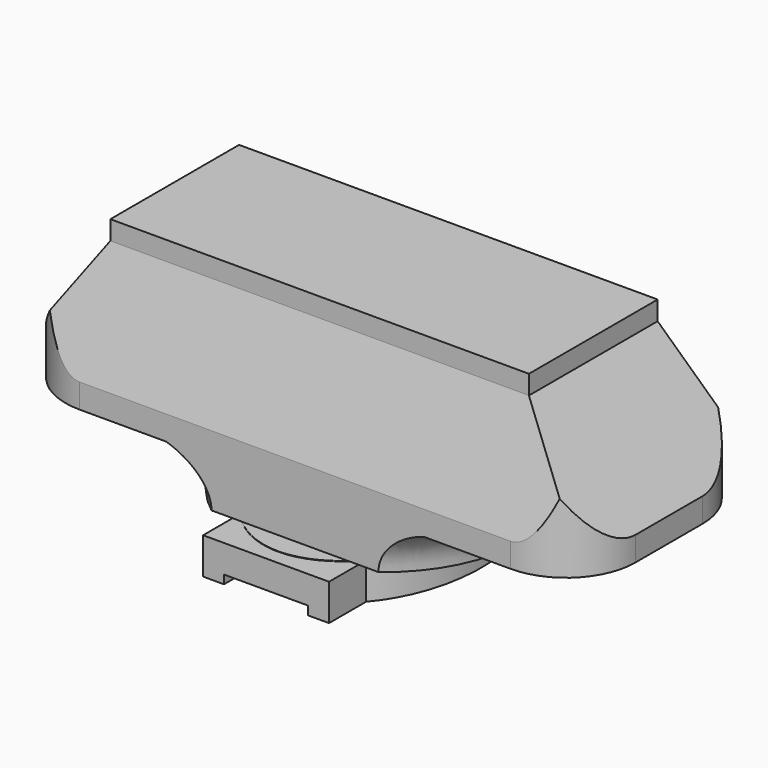
from build123d import *

# Parameters (mm, degrees)
SKETCH_W        = 82
SKETCH_H        = 32
PAD_DEPTH       = 19.85
SKETCH001_W     = 60.2
SKETCH001_H     = 23.14
PAD001_DEPTH    = 2.75
POCKET_DEPTH    = 82.001
POCKET001_DEPTH = 32.001
FILLET_R        = 10
SKETCH006_W     = 1.503506
SKETCH006_H     = 1.507809
PAD002_DEPTH    = 1
SKETCH007_W     = 9.4
SKETCH007_H     = 8
POCKET002_DEPTH = 82.001
SKETCH009_R     = 19.9
SKETCH009_R_2   = 17.7
POCKET003_DEPTH = 0.01
SKETCH010_R     = 9.5
POCKET004_DEPTH = 1
PAD003_DEPTH    = 5.3
SKETCH012_R     = 9.55
PAD004_DEPTH    = 4.06
CHAMFER_SIZE    = 1.2
SKETCH013_W     = 18.11
SKETCH013_H     = 7.2
PAD005_DEPTH    = 1.24
PAD006_DEPTH    = 4
SKETCH014_W     = 12.1
SKETCH014_H     = 45
POCKET005_DEPTH = 5
SKETCH015_W     = 20
SKETCH015_H     = 8
POCKET006_DEPTH = 50.051
SKETCH018_W     = 19.342346
SKETCH018_H     = 7.312466
POCKET007_DEPTH = 5.301


with BuildPart() as part:
    # Sketch → Pad (new body)
    with BuildSketch(Plane.XY):
        with Locations((41, 16)):
            Rectangle(SKETCH_W, SKETCH_H)
    extrude(amount=PAD_DEPTH)

    # Sketch001 (on Face6 of Pad) → Pad001 (join)
    with BuildSketch(Plane.XY.offset(19.85)):
        with Locations((41.004494, 16)):
            Rectangle(SKETCH001_W, SKETCH001_H)
    extrude(amount=PAD001_DEPTH)

    # Sketch002 (on Face3 of Pad001) → Pocket (cut, through all)
    with BuildSketch(Plane.YZ.offset(82)):
        Polygon((0, 3.5), (0, 19.85), (4.43, 19.85), align=None)
        Polygon((32, 3.5), (32, 19.85), (27.57, 19.85), align=None)
    extrude(amount=-POCKET_DEPTH, mode=Mode.SUBTRACT)

    # Sketch003 → Pocket001 (cut, through all)
    with BuildSketch(Plane.XZ):
        Polygon((0, 3.5), (0, 19.85), (10.9, 19.85), align=None)
        Polygon((82, 3.5), (82, 19.85), (71.1, 19.85), align=None)
    extrude(amount=-POCKET001_DEPTH, mode=Mode.SUBTRACT)

    # Fillet
    fillet_edges = [part.edges().sort_by_distance(p)[0] for p in [
        (82, 32, 1.75),
        (82, 0, 1.75),
        (0, 0, 1.75),
        (0, 32, 1.75),
    ]]
    fillet(fillet_edges, radius=FILLET_R)

    # Sketch006 (on Face2 of Fillet) → Pad002 (join)
    with BuildSketch(Plane(origin=(0, 0, 0), x_dir=(1, 0, 0), z_dir=(0, 0, -1))):
        with Locations((40.248247, -15.246095)):
            Rectangle(SKETCH006_W, SKETCH006_H)
    extrude(amount=PAD002_DEPTH)

    # Sketch008 → Revolution (revolve)
    with BuildSketch(Plane.YZ.offset(41)):
        with BuildLine():
            Line((16, 0), (16, -6.6))
            Line((16, -6.6), (-4, -6.6))
            ThreePointArc((-4, -6.6), (-5.232048, -2.605942), (-8.5, 0))
            Line((-8.5, 0), (16, 0))
        make_face()
    revolve(axis=Axis((41, 16, -0.5), (0, 0, -1)))

    # Sketch007 → Pocket002 (cut, through all)
    with BuildSketch(Plane.YZ.offset(82)):
        with Locations((-4.7, -4)):
            Rectangle(SKETCH007_W, SKETCH007_H)
        with Locations((36.7, -4)):
            Rectangle(SKETCH007_W, SKETCH007_H)
    extrude(amount=-POCKET002_DEPTH, mode=Mode.SUBTRACT)

    # Sketch009 (on Face12 of Pocket002) → Pocket003 (cut)
    with BuildSketch(Plane(origin=(0, 0, -6.6), x_dir=(1, 0, 0), z_dir=(0, 0, -1))):
        with Locations((41, -16)):
            Circle(SKETCH009_R)
        with Locations((41, -16)):
            Circle(SKETCH009_R_2, mode=Mode.SUBTRACT)
    extrude(amount=-POCKET003_DEPTH, mode=Mode.SUBTRACT)

    # Sketch010 (on Face16 of Pocket003) → Pocket004 (cut)
    with BuildSketch(Plane(origin=(0, 0, -6.6), x_dir=(1, 0, 0), z_dir=(0, 0, -1))):
        with Locations((41, -16)):
            Circle(SKETCH010_R)
    extrude(amount=-POCKET004_DEPTH, mode=Mode.SUBTRACT)

    # Sketch011 (on Face16 of Pocket004) → Pad003 (join)
    with BuildSketch(Plane(origin=(0, 0, -6.6), x_dir=(1, 0, 0), z_dir=(0, 0, -1))):
        with BuildLine():
            add(Edge.make_bspline(
                [(41, 3.065), (16.751289, 3.065), (28.875644, -25.5325), (41, -54.13), (53.124356, -25.5325), (65.248711, 3.065), (41, 3.065)],
                knots=[0, 0, 0, 2.094395, 2.094395, 4.18879, 4.18879, 6.283185, 6.283185, 6.283185], degree=2, weights=[1, 0.5, 1, 0.5, 1, 0.5, 1]))
        make_face()
        with BuildLine():
            add(Edge.make_bspline(
                [(41, 0.665), (20.908211, 0.665), (30.954105, -24.3325), (41, -49.33), (51.045895, -24.3325), (61.091789, 0.665), (41, 0.665)],
                knots=[0, 0, 0, 2.094395, 2.094395, 4.18879, 4.18879, 6.283185, 6.283185, 6.283185], degree=2, weights=[1, 0.5, 1, 0.5, 1, 0.5, 1]))
        make_face(mode=Mode.SUBTRACT)
    extrude(amount=PAD003_DEPTH)

    # Sketch012 (on Face17 of Pad003) → Pad004 (join)
    with BuildSketch(Plane(origin=(0, 0, -6.6), x_dir=(1, 0, 0), z_dir=(0, 0, -1))):
        with BuildLine():
            add(Edge.make_bspline(
                [(41, 0.67), (20.89089, 0.67), (30.945445, -24.335), (41, -49.34), (51.054555, -24.335), (61.10911, 0.67), (41, 0.67)],
                knots=[0, 0, 0, 2.094395, 2.094395, 4.18879, 4.18879, 6.283185, 6.283185, 6.283185], degree=2, weights=[1, 0.5, 1, 0.5, 1, 0.5, 1]))
        make_face()
        with Locations((41, -16)):
            Circle(SKETCH012_R, mode=Mode.SUBTRACT)
    extrude(amount=PAD004_DEPTH)

    # Chamfer
    chamfer_edges = [part.edges().sort_by_distance(p)[0] for p in [
        (31.45, 16, -10.66),
    ]]
    chamfer(chamfer_edges, length=CHAMFER_SIZE)

    # Sketch013 (on Face1 of Chamfer) → Pad005 (join)
    with BuildSketch(Plane(origin=(0, 0, -10.66), x_dir=(1, 0, 0), z_dir=(0, 0, -1))):
        with Locations((41.005, 1.6)):
            Rectangle(SKETCH013_W, SKETCH013_H)
    extrude(amount=PAD005_DEPTH)

    # Pad005 Face12 → Pad006 (add)
    with BuildSketch(Plane(origin=(41.009347, -3.173627, -10.66), x_dir=(0, 1, 0), z_dir=(0, 0, 1))):
        with BuildLine():
            add(Edge.make_bspline(
                [(4.627518, 9.059347), (4.152167, 8.647348), (3.69546, 8.21392), (3.259448, 7.758958), (2.846505, 7.282568), (2.459267, 6.785126), (2.100538, 6.267356), (1.324534, 4.994648), (0.934329, 4.222147), (0.610867, 3.417127), (0.361691, 2.585208), (0.192926, 1.73359), (0.108627, 0.871225), (0.108627, 0.009347)],
                knots=[0, 0, 0, 0, 0, 0, 0, 0, 0.421874, 0.421874, 0.421874, 0.421874, 0.421874, 0.421874, 1, 1, 1, 1, 1, 1, 1, 1], degree=7))
            Line((4.627518, 9.059347), (-2.026373, 9.059347))
            Line((-2.026373, 9.059347), (-2.026373, -9.050653))
            Line((-2.026373, -9.050653), (4.639067, -9.050653))
            add(Edge.make_bspline(
                [(0.108627, 0.009347), (0.108627, -0.865975), (0.195577, -1.741805), (0.369652, -2.606354), (0.626526, -3.450284), (0.959718, -4.266126), (1.36127, -5.048094), (2.147903, -6.3168), (2.503294, -6.823093), (2.885939, -7.309716), (3.293195, -7.776006), (3.722578, -8.221623), (4.171849, -8.646472), (4.639067, -9.050653)],
                knots=[0, 0, 0, 0, 0, 0, 0, 0, 0.58628, 0.58628, 0.58628, 0.58628, 0.58628, 0.58628, 1, 1, 1, 1, 1, 1, 1, 1], degree=7))
        make_face()
    extrude(amount=PAD006_DEPTH)

    # Sketch014 (on Face1 of Pad006) → Pocket005 (cut)
    with BuildSketch(Plane(origin=(0, 0, -10.66), x_dir=(1, 0, 0), z_dir=(0, 0, -1))):
        with Locations((41, -13.5)):
            Rectangle(SKETCH014_W, SKETCH014_H)
    extrude(amount=POCKET005_DEPTH, mode=Mode.SUBTRACT)

    # Sketch015 (on Face29 of Pocket005) → Pocket006 (cut, through all)
    with BuildSketch(Plane(origin=(31.95, 0, 0), x_dir=(0, -1, 0), z_dir=(-1, 0, 0))):
        with Locations((41, 36)):
            Rectangle(SKETCH015_W, SKETCH015_H)
    extrude(amount=-POCKET006_DEPTH, mode=Mode.SUBTRACT)

    # Sketch018 → Pocket007 (cut, through all)
    with BuildSketch(Plane.XY.offset(-6.6)):
        with Locations((41.268349, 35.656233)):
            Rectangle(SKETCH018_W, SKETCH018_H)
    extrude(amount=-POCKET007_DEPTH, mode=Mode.SUBTRACT)


solid = part.part
